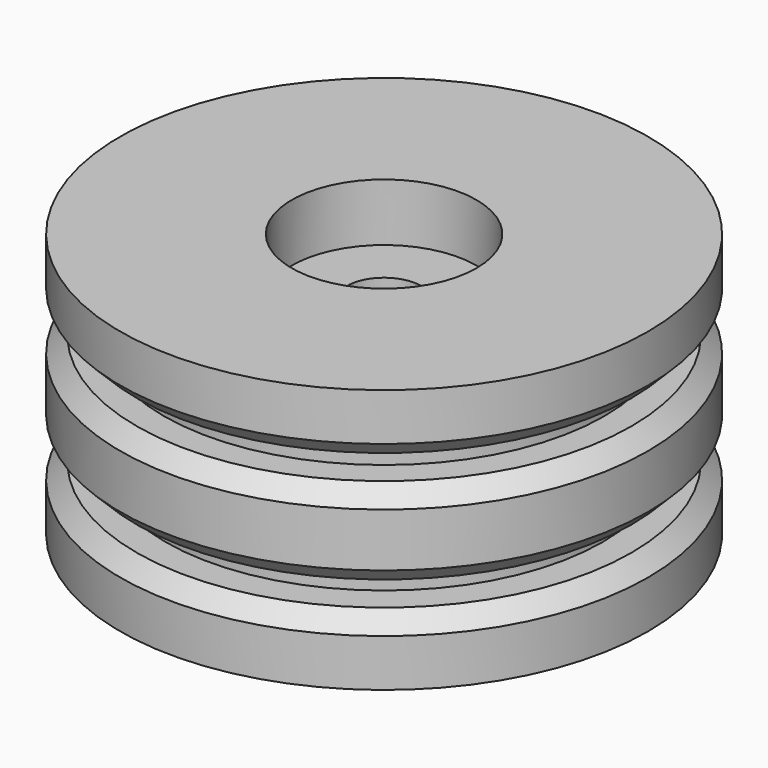
from build123d import *

# Parameters (mm, degrees)
CYLINDER006_R             = 26.7
CYLINDER006_DEPTH         = 7.25
CYLINDER007_R             = 4.5
CYLINDER007_DEPTH         = 32
CYLINDER005_R             = 26.7
CYLINDER005_DEPTH         = 7.25
CYLINDER004_R             = 32
CYLINDER004_DEPTH         = 6.5
CYLINDER010_R             = 11.2
CYLINDER010_DEPTH         = 7
CYLINDER009_R             = 4.5
CYLINDER009_DEPTH         = 32
CYLINDER001_R             = 26.5
CYLINDER001_DEPTH         = 7.25
CYLINDER_R                = 32
CYLINDER_DEPTH            = 5.75
CYLINDER011_R             = 11.2
CYLINDER011_DEPTH         = 7
CYLINDER008_R             = 4.5
CYLINDER008_DEPTH         = 32
CYLINDER003_R             = 26.5
CYLINDER003_DEPTH         = 7.25
CYLINDER002_R             = 32
CYLINDER002_DEPTH         = 5.75
FUSION001_PLACEMENT_ANGLE = 180


with BuildPart() as cylinder006:
    # Cylinder006 → Cylinder006 (new body)
    with BuildSketch(Plane.XY.offset(7.75)):
        Circle(CYLINDER006_R)
    extrude(amount=CYLINDER006_DEPTH)


with BuildPart() as cylinder007:
    # Cylinder007 → Cylinder007 (new body)
    with BuildSketch(Plane.XY):
        Circle(CYLINDER007_R)
    extrude(amount=CYLINDER007_DEPTH)


with BuildPart() as fusion003:
    # Cylinder005 → Cylinder005 (new body)
    with BuildSketch(Plane.XY.offset(17)):
        Circle(CYLINDER005_R)
    extrude(amount=CYLINDER005_DEPTH)

    # Fusion003: union Cylinder006, Cylinder007
    add(cylinder006.part)
    add(cylinder007.part)


with BuildPart() as cone002:
    # Cone002 → Cone002 (revolve)
    with BuildSketch(Plane(origin=(0, 0, 8.5), x_dir=(1, 0, 0), z_dir=(0, -1, 0))):
        Polygon((0, 0), (32, 0), (30, 2), (0, 2), align=None)
    revolve(axis=Axis((0, 0, 8.5), (0, 0, 1)))


with BuildPart() as cone003:
    # Cone003 → Cone003 (revolve)
    with BuildSketch(Plane.XZ):
        Polygon((0, 0), (30, 0), (32, 2), (0, 2), align=None)
    revolve(axis=Axis((0, 0, 0), (0, 0, 1)))


with BuildPart() as cut:
    # Cylinder004 → Cylinder004 (new body)
    with BuildSketch(Plane.XY.offset(2)):
        Circle(CYLINDER004_R)
    extrude(amount=CYLINDER004_DEPTH)

    # Fusion002: union Cone002, Cone003
    add(cone002.part)
    add(cone003.part)


with BuildPart() as cut_1:
    # Fusion002 placement: moved
    add(cut.part.moved(Location((0, 0, 10.75))))

    # Cut: cut Fusion003
    add(fusion003.part, mode=Mode.SUBTRACT)


with BuildPart() as cylinder010:
    # Cylinder010 → Cylinder010 (new body)
    with BuildSketch(Plane.XY):
        Circle(CYLINDER010_R)
    extrude(amount=CYLINDER010_DEPTH)


with BuildPart() as cylinder009:
    # Cylinder009 → Cylinder009 (new body)
    with BuildSketch(Plane.XY):
        Circle(CYLINDER009_R)
    extrude(amount=CYLINDER009_DEPTH)


with BuildPart() as cone:
    # Cone → Cone (revolve)
    with BuildSketch(Plane(origin=(0, 0, 5.75), x_dir=(1, 0, 0), z_dir=(0, -1, 0))):
        Polygon((0, 0), (32, 0), (30, 2), (0, 2), align=None)
    revolve(axis=Axis((0, 0, 5.75), (0, 0, 1)))


with BuildPart() as cylinder001:
    # Cylinder001 → Cylinder001 (new body)
    with BuildSketch(Plane.XY.offset(7.75)):
        Circle(CYLINDER001_R)
    extrude(amount=CYLINDER001_DEPTH)


with BuildPart() as cut003:
    # Cylinder → Cylinder (new body)
    with BuildSketch(Plane.XY):
        Circle(CYLINDER_R)
    extrude(amount=CYLINDER_DEPTH)

    # Fusion: union Cone, Cylinder001
    add(cone.part)
    add(cylinder001.part)

    # Cut002: cut Cylinder009
    add(cylinder009.part, mode=Mode.SUBTRACT)

    # Cut003: cut Cylinder010
    add(cylinder010.part, mode=Mode.SUBTRACT)


with BuildPart() as cylinder011:
    # Cylinder011 → Cylinder011 (new body)
    with BuildSketch(Plane.XY.offset(25)):
        Circle(CYLINDER011_R)
    extrude(amount=CYLINDER011_DEPTH)


with BuildPart() as cylinder008:
    # Cylinder008 → Cylinder008 (new body)
    with BuildSketch(Plane.XY):
        Circle(CYLINDER008_R)
    extrude(amount=CYLINDER008_DEPTH)


with BuildPart() as cone001:
    # Cone001 → Cone001 (revolve)
    with BuildSketch(Plane(origin=(0, 0, 5.75), x_dir=(1, 0, 0), z_dir=(0, -1, 0))):
        Polygon((0, 0), (32, 0), (30, 2), (0, 2), align=None)
    revolve(axis=Axis((0, 0, 5.75), (0, 0, 1)))


with BuildPart() as cylinder003:
    # Cylinder003 → Cylinder003 (new body)
    with BuildSketch(Plane.XY.offset(7.75)):
        Circle(CYLINDER003_R)
    extrude(amount=CYLINDER003_DEPTH)


with BuildPart() as fusion004:
    # Cylinder002 → Cylinder002 (new body)
    with BuildSketch(Plane.XY):
        Circle(CYLINDER002_R)
    extrude(amount=CYLINDER002_DEPTH)

    # Fusion001: union Cone001, Cylinder003
    add(cone001.part)
    add(cylinder003.part)


with BuildPart() as fusion004_1:
    # Fusion001 placement: moved
    add(fusion004.part.moved(Location((0, 0, 32))).rotate(Axis((0, 0, 32), (1, 0, 0)), FUSION001_PLACEMENT_ANGLE))

    # Cut001: cut Cylinder008
    add(cylinder008.part, mode=Mode.SUBTRACT)

    # Cut004: cut Cylinder011
    add(cylinder011.part, mode=Mode.SUBTRACT)

    # Fusion004: union Cut, Cut003
    add(cut_1.part)
    add(cut003.part)


solid = fusion004_1.part
